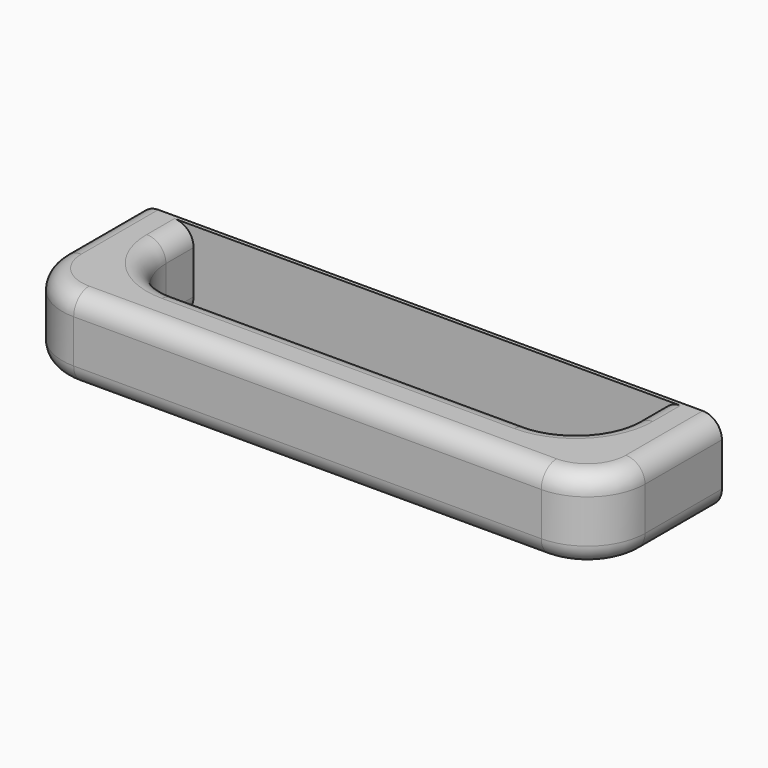
from build123d import *

# Parameters (mm, degrees)
SKETCH024_W     = 151.632409
SKETCH024_H     = 21.2714
PAD014_DEPTH    = 40
SKETCH025_W     = 121.632409
SKETCH025_H     = 24
POCKET010_DEPTH = 21.2724
FILLET016_R     = 15
FILLET017_R     = 5


with BuildPart() as part:
    # Sketch024 (on Face1 of CopyPocket009) → Pad014 (new body)
    with BuildSketch(Plane.XZ.offset(825)):
        with Locations((591.056032, -509.507206)):
            Rectangle(SKETCH024_W, SKETCH024_H)
    extrude(amount=PAD014_DEPTH)

    # Sketch025 (on Face4 of Pad014) → Pocket010 (cut, through all)
    with BuildSketch(Plane(origin=(0, 0, -498.871506), x_dir=(-1, 0, 0), z_dir=(0, 0, 1))):
        with Locations((-591.056032, 838)):
            Rectangle(SKETCH025_W, SKETCH025_H)
    extrude(amount=-POCKET010_DEPTH, mode=Mode.SUBTRACT)

    # Fillet016
    fillet016_edges = [part.edges().sort_by_distance(p)[0] for p in [
        (666.872237, -865, -509.507206),
        (515.239828, -865, -509.507206),
        (530.239828, -850, -509.507206),
        (651.872237, -850, -509.507206),
    ]]
    fillet(fillet016_edges, radius=FILLET016_R)

    # Fillet017
    fillet017_edges = [part.edges().sort_by_distance(p)[0] for p in [
        (591.056032, -850, -498.871506),
        (591.056032, -865, -498.871506),
        (591.056032, -850, -520.142906),
        (591.056032, -865, -520.142906),
    ]]
    fillet(fillet017_edges, radius=FILLET017_R)


solid = part.part
